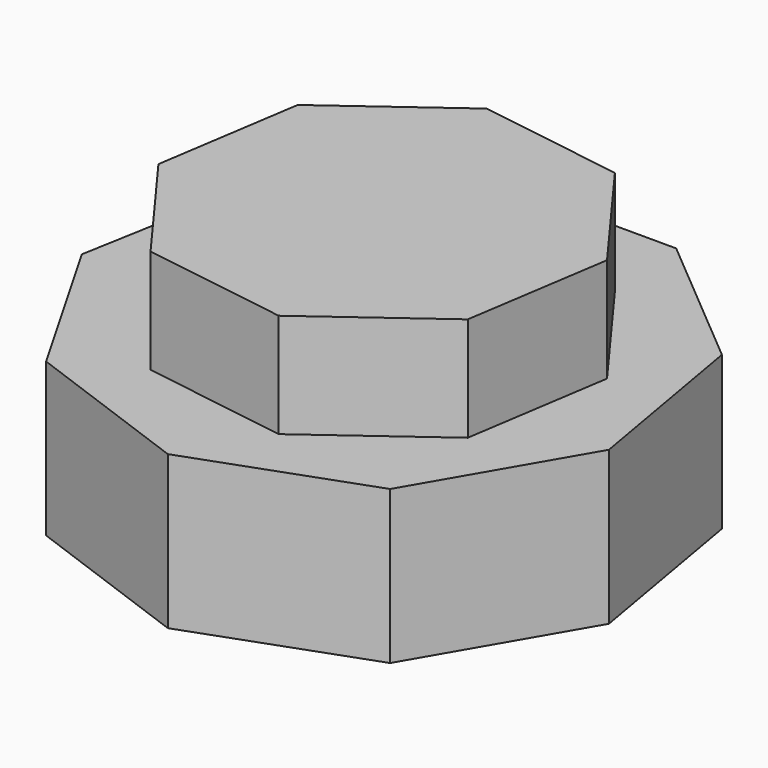
from build123d import *

# Parameters (mm, degrees)
F1_DEPTH = 37.338
F3_DEPTH = 25.4


with BuildPart() as f1:
    # F0 (on Top) → F1 (new body)
    with BuildSketch(Plane.XY):
        Polygon((41.884293, -50.10855), (64.294385, -11.462672), (56.62042, 32.546718), (22.453131, 61.327137), (-22.220228, 61.411907), (-56.496495, 32.761363), (-64.337424, -11.218587), (-42.074157, -49.949235), (-0.123925, -65.308081), align=None)
    extrude(amount=F1_DEPTH)

    # F2 (on face) → F3 (join)
    with BuildSketch(Plane.XY.offset(37.338)):
        Polygon((-11.20264, 45.694511), (-40.232361, 24.389435), (-45.694511, -11.20264), (-24.389435, -40.232361), (11.20264, -45.694511), (40.232361, -24.389435), (45.694511, 11.20264), (24.389435, 40.232361), align=None)
    extrude(amount=F3_DEPTH)


solid = f1.part
